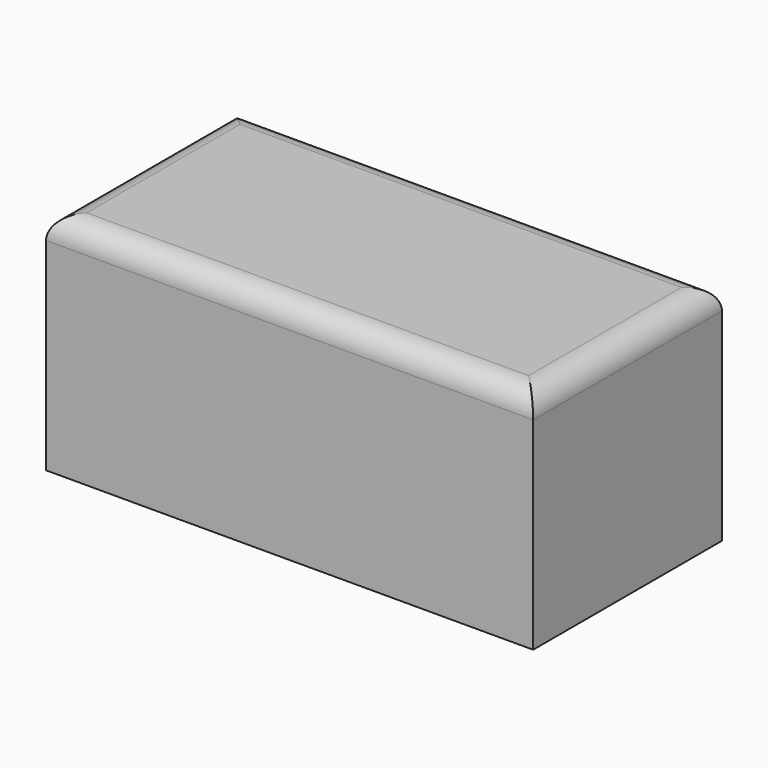
from build123d import *

# Parameters (mm, degrees)
F1_DEPTH = 25.4
F2_R     = 2.54


with BuildPart() as f1:
    # F0 (on Top) → F1 (new body)
    with BuildSketch(Plane.XY):
        Polygon((24.431467, 13.838641), (-30.526407, 13.838641), (-30.526407, 0), (-30.526407, -12.888923), (24.431467, -12.810618), align=None)
    extrude(amount=F1_DEPTH)

    # F2
    f2_edges = [f1.edges().sort_by_distance(p)[0] for p in [
        (-3.04747, -12.84977, 25.4),
        (-3.04747, 13.838641, 25.4),
        (24.431467, 0.514012, 25.4),
        (-30.526407, 0.474859, 25.4),
    ]]
    fillet(f2_edges, radius=F2_R)


solid = f1.part
